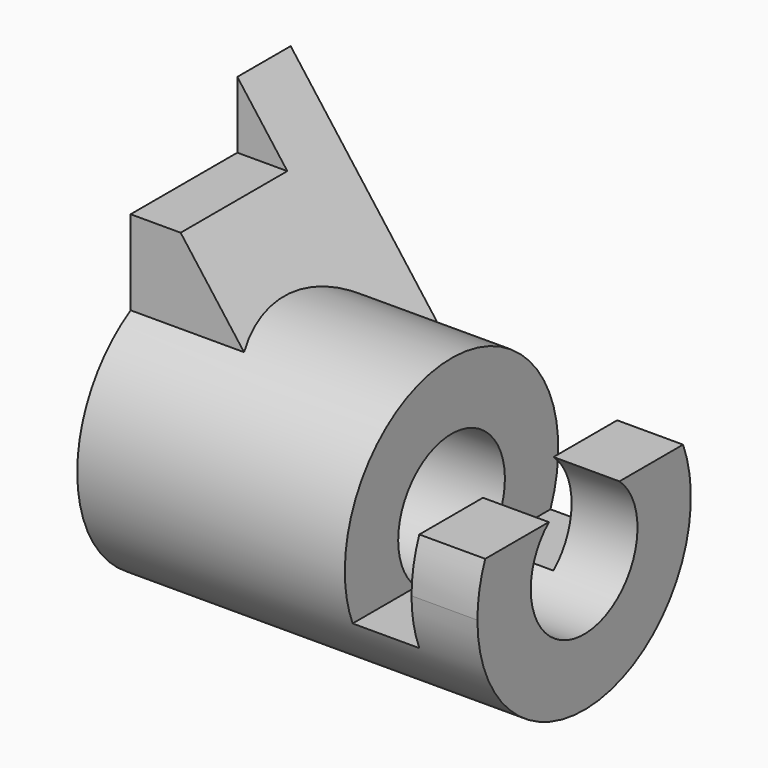
from build123d import *

# Parameters (mm, degrees)
F1_DEPTH  = 25.4
F3_DEPTH  = 12.7
F4_R      = 25.4
F5_DEPTH  = 76.2
F6_R      = 12.7
F7_DEPTH  = 76.201
F8_W      = 25.4
F8_H      = 12.7
F9_DEPTH  = 76.201
F11_DEPTH = 50.801


with BuildPart() as f1:
    # F0 (on Front) → F1 (new body)
    with BuildSketch(Plane.XZ):
        Polygon((0, 50.8), (0, 0), (38.1, 0), align=None)
    extrude(amount=-F1_DEPTH)

    # F2 (on face) → F3 (join)
    with BuildSketch(Plane.XZ):
        Polygon((38.1, 0), (0, 50.8), (0, 0), align=None)
    extrude(amount=F3_DEPTH)

    # F4 (on face) → F5 (join)
    with BuildSketch(Plane(origin=(0, 0, 0), x_dir=(0, -1, 0), z_dir=(-1, 0, 0))):
        Circle(F4_R)
    extrude(amount=-F5_DEPTH)

    # F6 (on face) → F7 (cut, through all)
    with BuildSketch(Plane(origin=(0, 0, 0), x_dir=(0, -1, 0), z_dir=(-1, 0, 0))):
        Circle(F6_R)
    extrude(amount=-F7_DEPTH, mode=Mode.SUBTRACT)

    # F8 (on face) → F9 (cut, through all)
    with BuildSketch(Plane(origin=(0, 0, 0), x_dir=(0, -1, 0), z_dir=(-1, 0, 0))):
        with Locations((0, 44.45)):
            Rectangle(F8_W, F8_H)
    extrude(amount=-F9_DEPTH, mode=Mode.SUBTRACT)

    # F10 (on face) → F11 (cut, through all)
    with BuildSketch(Plane(origin=(0, 25.4, 0), x_dir=(-1, 0, 0), z_dir=(0, 1, 0))):
        Polygon((-50.951158, 25.4), (-76.351158, 25.4), (-76.351158, 9.525), (-63.651158, 9.525), (-63.651158, -9.525), (-50.951158, -9.525), align=None)
    extrude(amount=-F11_DEPTH, mode=Mode.SUBTRACT)


solid = f1.part
